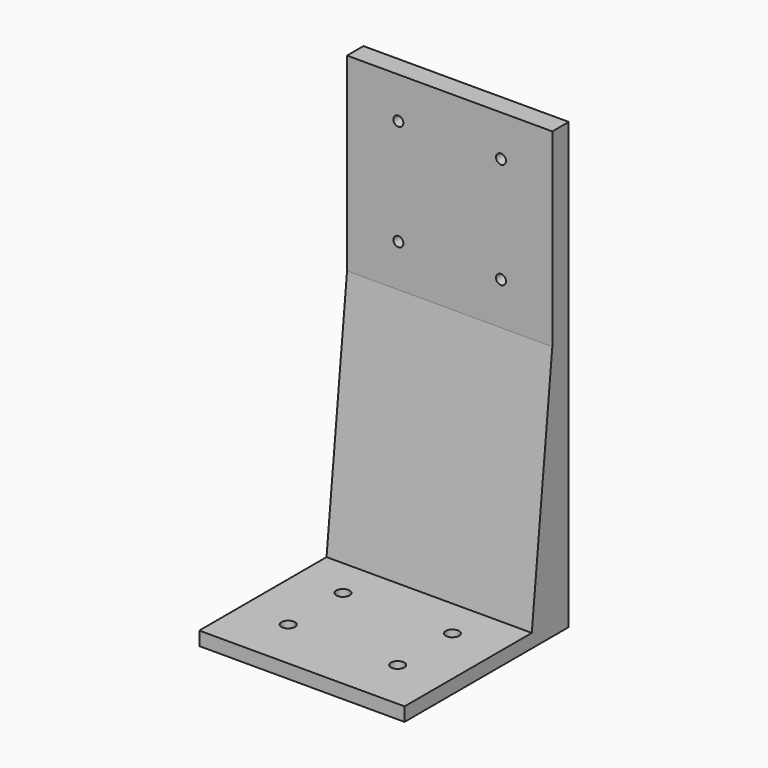
from build123d import *

# Parameters (mm, degrees)
F0_W     = 60
F0_H     = 60
F0_R     = 1.95
F1_DEPTH = 4
F2_W     = 60
F2_H     = 126
F2_R     = 1.45
F3_DEPTH = 6
F5_DEPTH = 60


with BuildPart() as f1:
    # F0 (on Top) → F1 (new body)
    with BuildSketch(Plane.XY):
        Rectangle(F0_W, F0_H)
        with Locations((-16, -15)):
            Circle(F0_R, mode=Mode.SUBTRACT)
        with Locations((16, -15)):
            Circle(F0_R, mode=Mode.SUBTRACT)
        with Locations((-16, 5)):
            Circle(F0_R, mode=Mode.SUBTRACT)
        with Locations((16, 5)):
            Circle(F0_R, mode=Mode.SUBTRACT)
    extrude(amount=F1_DEPTH)

    # F2 (on face) → F3 (join)
    with BuildSketch(Plane(origin=(0, 30, 0), x_dir=(-1, 0, 0), z_dir=(0, 1, 0))):
        with Locations((0, 67)):
            Rectangle(F2_W, F2_H)
        with Locations((-15, 87)):
            Circle(F2_R, mode=Mode.SUBTRACT)
        with Locations((-15, 118)):
            Circle(F2_R, mode=Mode.SUBTRACT)
        with Locations((15, 87)):
            Circle(F2_R, mode=Mode.SUBTRACT)
        with Locations((15, 118)):
            Circle(F2_R, mode=Mode.SUBTRACT)
    extrude(amount=-F3_DEPTH)

    # F4 (on face) → F5 (join)
    with BuildSketch(Plane.YZ.offset(30)):
        Polygon((24, 74.602762), (16.5, 4), (24, 4), align=None)
    extrude(amount=-F5_DEPTH)


solid = f1.part
